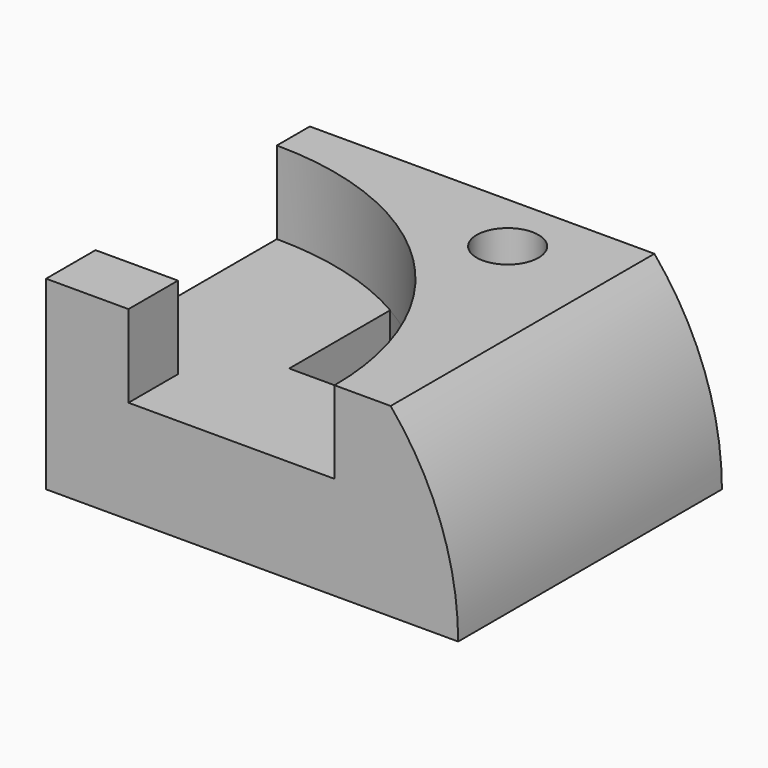
from build123d import *

# Parameters (mm, degrees)
F0_W      = 100
F0_H      = 45
F1_DEPTH  = 80
F3_DEPTH  = 20
F5_DEPTH  = 30
F6_W      = 20
F6_H      = 15
F7_DEPTH  = 20
F9_DEPTH  = 25.001
F11_DEPTH = 80.001


with BuildPart() as f1:
    # F0 (on Front) → F1 (new body)
    with BuildSketch(Plane.XZ):
        with Locations((50, 22.5)):
            Rectangle(F0_W, F0_H)
    extrude(amount=F1_DEPTH)

    # F2 (on face) → F3 (cut)
    with BuildSketch(Plane.XY.offset(45)):
        with BuildLine():
            Line((0, -80), (70, -80))
            ThreePointArc((70, -80), (49.4974746831, -30.5025253169), (0, -10))
            Line((0, -10), (0, -80))
        make_face()
    extrude(amount=-F3_DEPTH, mode=Mode.SUBTRACT)

    # F4 (on face) → F5 (cut)
    with BuildSketch(Plane.XY.offset(45)):
        with BuildLine():
            ThreePointArc((67.5, -15), (65.3033008589, -9.6966991411), (60, -7.5))
            ThreePointArc((60, -7.5), (54.6966991411, -20.3033008589), (67.5, -15))
        make_face()
    extrude(amount=-F5_DEPTH, mode=Mode.SUBTRACT)

    # F6 (on face) → F7 (join)
    with BuildSketch(Plane.XY.offset(25)):
        with Locations((10, -72.5)):
            Rectangle(F6_W, F6_H)
    extrude(amount=F7_DEPTH)

    # F8 (on face) → F9 (cut, through all)
    with BuildSketch(Plane.XY.offset(25)):
        with BuildLine():
            Line((35, -19.3782217351), (35, -50))
            Line((35, -50), (63.2455532034, -50))
            ThreePointArc((63.2455532034, -50), (51.4535762322, -32.5391793906), (35, -19.3782217351))
        make_face()
    extrude(amount=-F9_DEPTH, mode=Mode.SUBTRACT)

    # F10 (on face) → F11 (cut, through all)
    with BuildSketch(Plane.XZ.offset(80)):
        with BuildLine():
            ThreePointArc((83.6190264738, 45), (95.7773967757, 23.944395449), (100, 0))
            Line((100, 0), (100, 45))
            Line((100, 45), (83.6190264738, 45))
        make_face()
    extrude(amount=-F11_DEPTH, mode=Mode.SUBTRACT)


solid = f1.part
